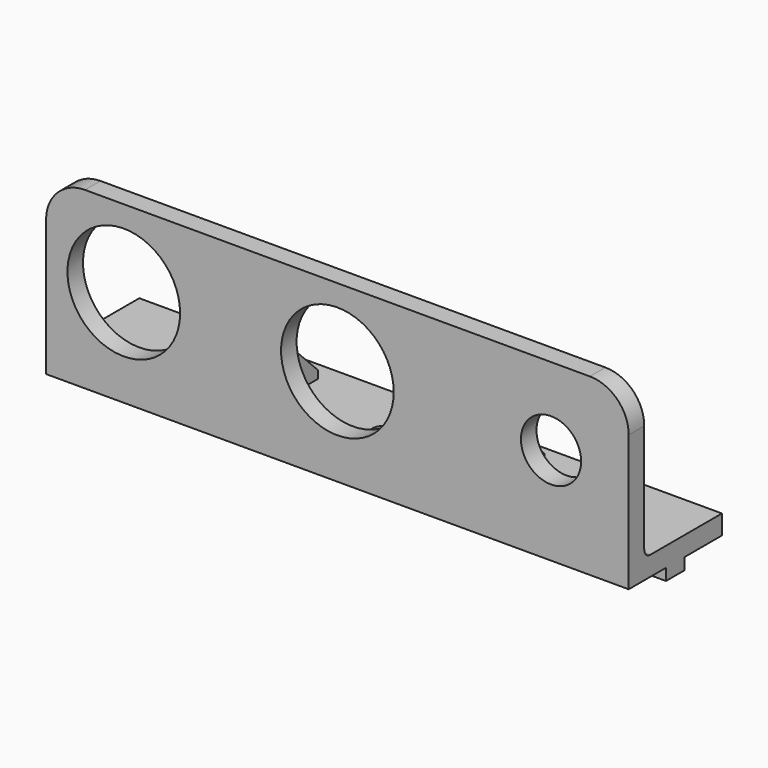
from build123d import *

# Parameters (mm, degrees)
SKETCH_W        = 150
SKETCH_H        = 30
PAD_DEPTH       = 5
SKETCH001_W     = 150
SKETCH001_H     = 5
PAD001_DEPTH    = 40
SKETCH002_R     = 14.5
SKETCH002_R_2   = 7.75
POCKET_DEPTH    = 30.001
FILLET_R        = 10
SKETCH003_W     = 10
SKETCH003_H     = 6
PAD002_DEPTH    = 3
SKETCH004_R     = 3
POCKET001_DEPTH = 8.001
SKETCH005_W     = 5
SKETCH005_H     = 20
PAD003_DEPTH    = 20
CHAMFER_SIZE    = 18
FILLET001_R     = 2


with BuildPart() as part:
    # Sketch → Pad (new body)
    with BuildSketch(Plane.XY):
        with Locations((75, 15)):
            Rectangle(SKETCH_W, SKETCH_H)
    extrude(amount=PAD_DEPTH)

    # Sketch001 (on Face6 of Pad) → Pad001 (join)
    with BuildSketch(Plane.XY.offset(5)):
        with Locations((75, 2.5)):
            Rectangle(SKETCH001_W, SKETCH001_H)
    extrude(amount=PAD001_DEPTH)

    # Sketch002 (on Face5 of Pad001) → Pocket (cut, through all)
    with BuildSketch(Plane.XZ):
        with Locations((20, 25)):
            Circle(SKETCH002_R)
        with Locations((75, 25)):
            Circle(SKETCH002_R)
        with Locations((130, 25)):
            Circle(SKETCH002_R_2)
    extrude(amount=-POCKET_DEPTH, mode=Mode.SUBTRACT)

    # Fillet
    fillet_edges = [part.edges().sort_by_distance(p)[0] for p in [
        (150, 2.5, 45),
        (0, 2.5, 45),
    ]]
    fillet(fillet_edges, radius=FILLET_R)

    # Sketch003 → Pad002 (join)
    with BuildSketch(Plane(origin=(0, 0, 0), x_dir=(1, 0, 0), z_dir=(0, 0, -1))):
        with Locations((5, -15)):
            Rectangle(SKETCH003_W, SKETCH003_H)
        with Locations((145, -15)):
            Rectangle(SKETCH003_W, SKETCH003_H)
    extrude(amount=PAD002_DEPTH)

    # Sketch004 (on Face15 of Pad002) → Pocket001 (cut, through all)
    with BuildSketch(Plane.XY.offset(5)):
        with Locations((75, 15)):
            Circle(SKETCH004_R)
    extrude(amount=-POCKET001_DEPTH, mode=Mode.SUBTRACT)

    # Sketch005 (on Face15 of Pocket001) → Pad003 (join)
    with BuildSketch(Plane.XY.offset(5)):
        with Locations((47.5, 15)):
            Rectangle(SKETCH005_W, SKETCH005_H)
        with Locations((105.875, 15)):
            Rectangle(SKETCH005_W, SKETCH005_H)
    extrude(amount=PAD003_DEPTH)

    # Chamfer
    chamfer_edges = [part.edges().sort_by_distance(p)[0] for p in [
        (105.875, 25, 25),
        (47.5, 25, 25),
    ]]
    chamfer(chamfer_edges, length=CHAMFER_SIZE)

    # Fillet001
    fillet001_edges = [part.edges().sort_by_distance(p)[0] for p in [
        (129.1875, 5, 5),
        (76.6875, 5, 5),
        (22.5, 5, 5),
    ]]
    fillet(fillet001_edges, radius=FILLET001_R)


solid = part.part
